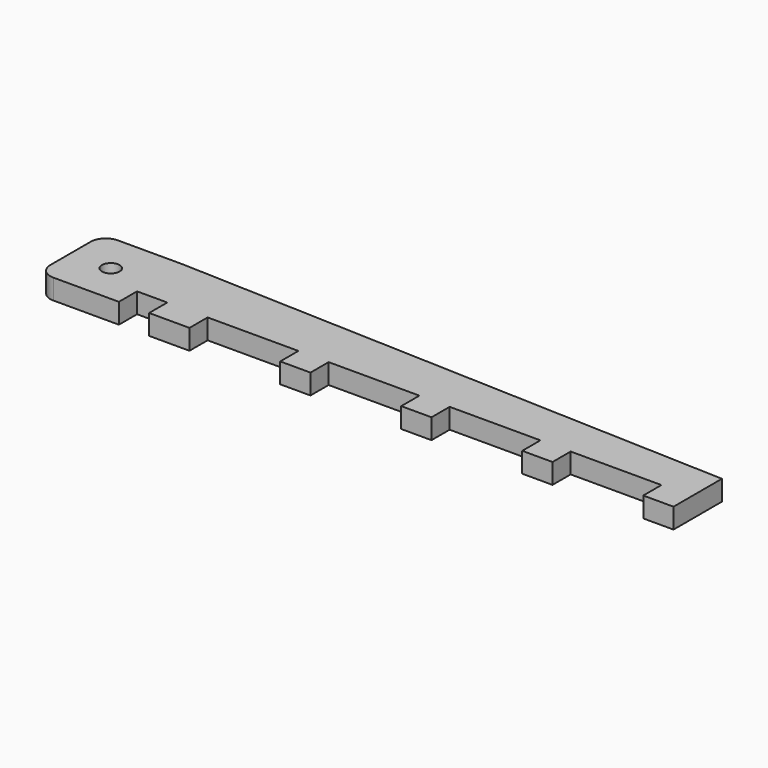
from build123d import *

# Parameters (mm, degrees)
F0_R     = 1.75
F1_DEPTH = 4


with BuildPart() as f1:
    # F0 (on Top) → F1 (new body)
    with BuildSketch(Plane.XY):
        with BuildLine():
            Line((-15, -8), (-9, -8))
            Line((-9, -8), (-9, -3.5))
            Line((-9, -3.5), (9, -3.5))
            Line((9, -3.5), (9, -8))
            Line((9, -8), (15, -8))
            Line((15, -8), (15, -3.5))
            Line((15, -3.5), (33, -3.5))
            Line((33, -3.5), (33, -8))
            Line((33, -8), (39, -8))
            Line((39, -8), (39, -3.5))
            Line((39, -3.5), (57, -3.5))
            Line((57, -3.5), (57, -8))
            Line((57, -8), (63, -8))
            Line((63, -8), (63, 4))
            Line((63, 4), (-47, 8))
            Line((-47, 8), (-60, 8))
            ThreePointArc((-60, 8), (-62.12132, 7.12132), (-63, 5))
            Line((-63, 5), (-63, -5))
            ThreePointArc((-63, -5), (-62.12132, -7.12132), (-60, -8))
            Line((-60, -8), (-47, -8))
            Line((-47, -8), (-47, -3.5))
            Line((-47, -3.5), (-41, -3.5))
            Line((-41, -3.5), (-41, -8))
            Line((-41, -8), (-33, -8))
            Line((-33, -8), (-33, -3.5))
            Line((-33, -3.5), (-15, -3.5))
            Line((-15, -3.5), (-15, -8))
        make_face()
        with Locations((-55, 0)):
            Circle(F0_R, mode=Mode.SUBTRACT)
    extrude(amount=F1_DEPTH)


solid = f1.part
